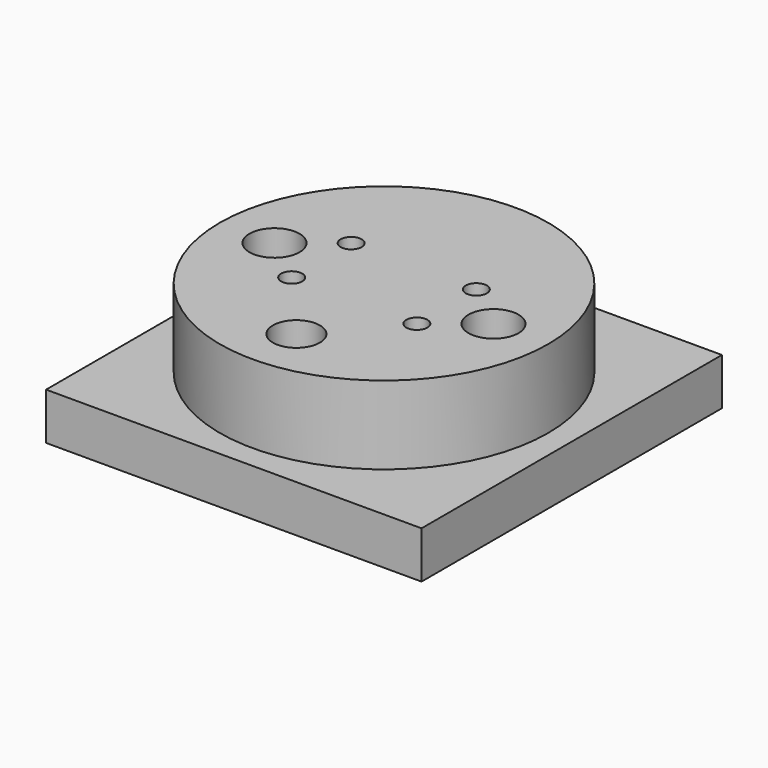
from build123d import *

# Parameters (mm, degrees)
F0_W     = 48
F0_H     = 48
F1_DEPTH = 6
F2_R     = 21
F3_DEPTH = 10
F4_R     = 3.2
F4_R_2   = 1.35
F5_DEPTH = 12
F6_R     = 3
F7_DEPTH = 16.001


with BuildPart() as f1:
    # F0 (on Top) → F1 (new body)
    with BuildSketch(Plane.XY):
        Rectangle(F0_W, F0_H)
    extrude(amount=F1_DEPTH)

    # F2 (on face) → F3 (join)
    with BuildSketch(Plane.XY.offset(6)):
        Circle(F2_R)
    extrude(amount=F3_DEPTH)

    # F4 (on face) → F5 (cut)
    with BuildSketch(Plane.XY.offset(16)):
        with Locations((-14, 0)):
            Circle(F4_R)
        with Locations((14, 0)):
            Circle(F4_R)
        with Locations((-8, 4.75)):
            Circle(F4_R_2)
        with Locations((8, 4.75)):
            Circle(F4_R_2)
        with Locations((-8, -4.75)):
            Circle(F4_R_2)
        with Locations((8, -4.75)):
            Circle(F4_R_2)
    extrude(amount=-F5_DEPTH, mode=Mode.SUBTRACT)

    # F6 (on face) → F7 (cut, through all)
    with BuildSketch(Plane.XY.offset(16)):
        with Locations((0, -14)):
            Circle(F6_R)
    extrude(amount=-F7_DEPTH, mode=Mode.SUBTRACT)


solid = f1.part
